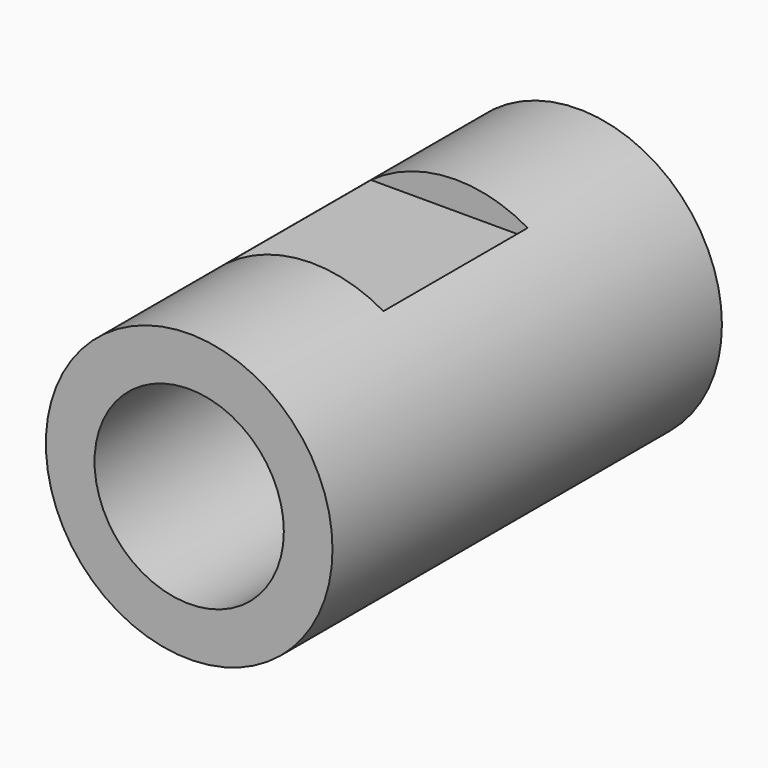
from build123d import *

# Parameters (mm, degrees)
F0_W     = 3.975
F0_H     = 13.5
F2_W     = 5
F2_H     = 10
F2_H_2   = 1.897511
F3_DEPTH = 25
F4_R     = 2.625
F5_DEPTH = 6
F6_R     = 2.625
F7_DEPTH = 6


with BuildPart() as f1:
    # F0 (on Top) → F1 (revolve)
    with BuildSketch(Plane.XY):
        Rectangle(F0_W, F0_H)
    revolve(axis=Axis((-1.9875, 0, 0), (0, -1, 0)))

    # F2 (on Right) → F3 (cut)
    with BuildSketch(Plane.YZ):
        with Locations((0, -8.2)):
            Rectangle(F2_W, F2_H)
        with Locations((0, 4.148756)):
            Rectangle(F2_W, F2_H_2)
    extrude(amount=-F3_DEPTH, mode=Mode.SUBTRACT)

    # F4 (on face) → F5 (cut)
    with BuildSketch(Plane.XZ.offset(6.75)):
        with Locations((-1.9875, 0)):
            Circle(F4_R)
    extrude(amount=-F5_DEPTH, mode=Mode.SUBTRACT)

    # F6 (on face) → F7 (cut)
    with BuildSketch(Plane(origin=(0, 6.75, 0), x_dir=(-1, 0, 0), z_dir=(0, 1, 0))):
        with Locations((1.9875, 0)):
            Circle(F6_R)
    extrude(amount=-F7_DEPTH, mode=Mode.SUBTRACT)


solid = f1.part
